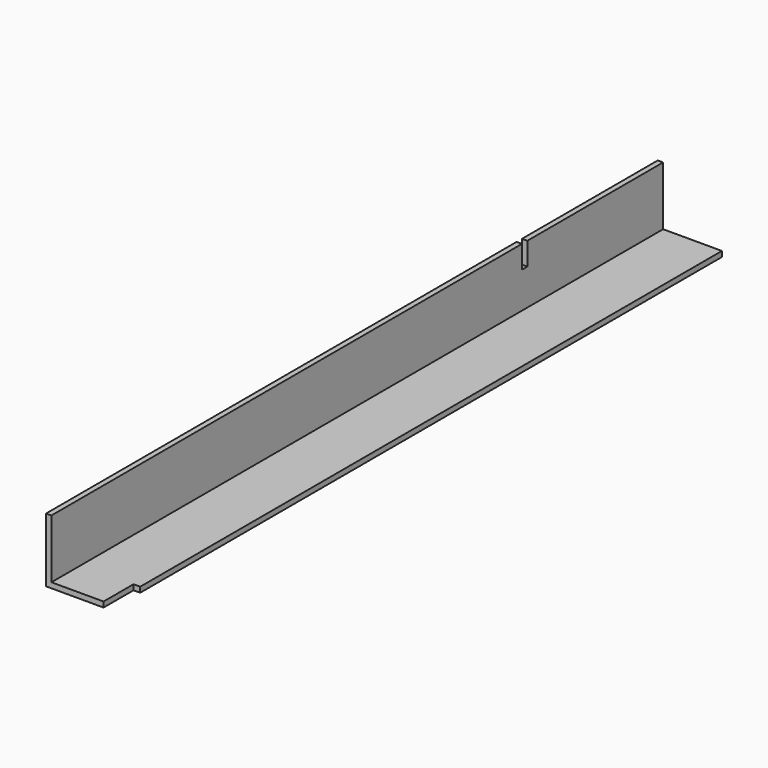
from build123d import *

# Parameters (mm, degrees)
F1_DEPTH = 454.025
F2_W     = 3.96875
F2_H     = 22.225
F3_DEPTH = 25.4
F4_W     = 3.96875
F4_H     = 13.49375
F5_DEPTH = 25.4


with BuildPart() as f1:
    # F0 (on Front) → F1 (new body)
    with BuildSketch(Plane.XZ):
        Polygon((-18.553972, 20.450408), (-21.728972, 20.450408), (-21.728972, -17.649592), (16.371028, -17.649592), (16.371028, -14.474592), (-18.553972, -14.474592), align=None)
    extrude(amount=F1_DEPTH)

    # F2 (on face) → F3 (cut)
    with BuildSketch(Plane(origin=(0, 0, -17.649592), x_dir=(1, 0, 0), z_dir=(0, 0, -1))):
        with Locations((14.386653, 442.9125)):
            Rectangle(F2_W, F2_H)
    extrude(amount=-F3_DEPTH, mode=Mode.SUBTRACT)

    # F4 (on face) → F5 (cut)
    with BuildSketch(Plane.YZ.offset(-18.553972)):
        with Locations((-102.790625, 13.703533)):
            Rectangle(F4_W, F4_H)
    extrude(amount=-F5_DEPTH, mode=Mode.SUBTRACT)


solid = f1.part
